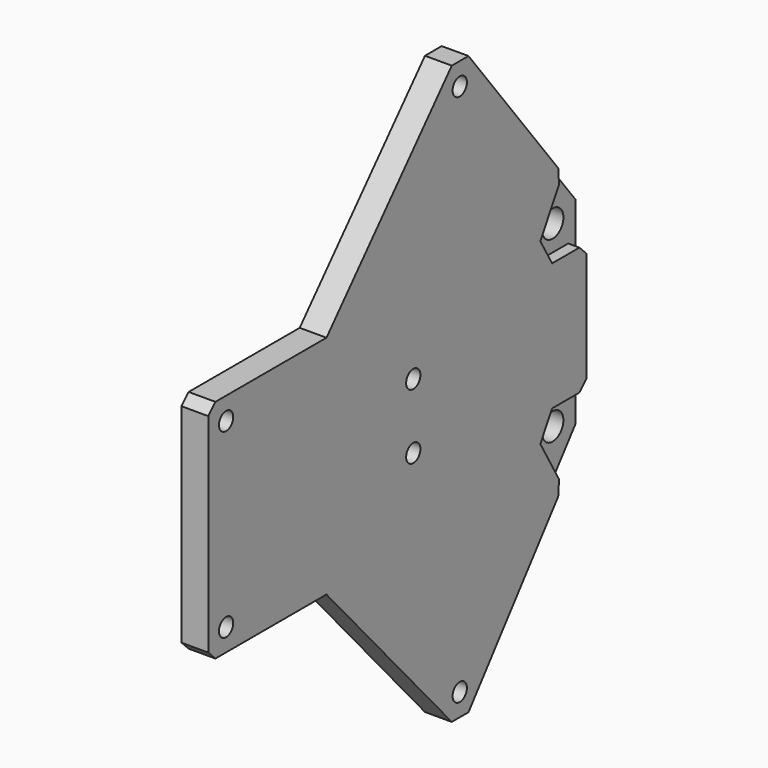
from build123d import *

# Parameters (mm, degrees)
SKETCH_R        = 1
SKETCH_R_2      = 1.5
PAD_DEPTH       = 3
POCKET_DEPTH    = 1.25
SKETCH002_R     = 2.5
SKETCH002_R_2   = 1.5
PAD001_DEPTH    = 0.25
CHAMFER_SIZE    = 1
CHAMFER001_SIZE = 1.2


with BuildPart() as part:
    # Sketch → Pad (new body)
    with BuildSketch(Plane.YZ):
        Polygon((48.175426, 11.088705), (48.175426, -11.088705), (31.651763, -32.353395), (29.306974, -32.353395), (11.768704, -12.656963), (-4.783279, -12.656963), (-4.783279, 12.656963), (11.768704, 12.656963), (29.306974, 32.353395), (31.651763, 32.353395), align=None)
        with Locations((-2.283279, 10.156963)):
            Circle(SKETCH_R, mode=Mode.SUBTRACT)
        with Locations((23.920751, 3.649365)):
            Circle(SKETCH_R, mode=Mode.SUBTRACT)
        with Locations((30.428348, 29.853395)):
            Circle(SKETCH_R, mode=Mode.SUBTRACT)
        with Locations((-2.283279, -10.156963)):
            Circle(SKETCH_R, mode=Mode.SUBTRACT)
        with Locations((30.428348, -29.853395)):
            Circle(SKETCH_R, mode=Mode.SUBTRACT)
        with Locations((23.920751, -3.649365)):
            Circle(SKETCH_R, mode=Mode.SUBTRACT)
        with Locations((45, 10)):
            Circle(SKETCH_R_2, mode=Mode.SUBTRACT)
        with Locations((45, -10)):
            Circle(SKETCH_R_2, mode=Mode.SUBTRACT)
    extrude(amount=-PAD_DEPTH)

    # Sketch001 (on Face19 of Pad) → Pocket (cut)
    with BuildSketch(Plane.YZ):
        Polygon((43.354552, 12.85), (41.709103, 10), (43.354552, 7.15), (46.645448, 7.15), (48.175426, 7.15), (48.175426, 11.088705), (44.826178, 15.398932), align=None)
        Polygon((43.354552, -7.15), (41.709103, -10), (43.354552, -12.85), (44.826178, -15.398932), (48.175426, -11.088705), (48.175426, -7.15), (46.645448, -7.15), align=None)
    extrude(amount=-POCKET_DEPTH, mode=Mode.SUBTRACT)

    # Sketch002 (on Face5 of Pocket) → Pad001 (join)
    with BuildSketch(Plane(origin=(-3, 0, 0), x_dir=(0, 1, 0), z_dir=(-1, 0, 0))):
        with Locations((45, 10)):
            Circle(SKETCH002_R)
        with Locations((45, 10)):
            Circle(SKETCH002_R_2, mode=Mode.SUBTRACT)
        with Locations((45, -10)):
            Circle(SKETCH002_R)
        with Locations((45, -10)):
            Circle(SKETCH002_R_2, mode=Mode.SUBTRACT)
    extrude(amount=PAD001_DEPTH)

    # Chamfer
    chamfer_edges = [part.edges().sort_by_distance(p)[0] for p in [
        (-0.625, 44.826178, 15.398932),
        (-0.625, 48.175426, 7.15),
        (-0.625, 48.175426, -7.15),
        (-0.625, 44.826178, -15.398932),
        (-1.5, -4.783279, 12.656963),
        (-1.5, -4.783279, -12.656963),
    ]]
    chamfer(chamfer_edges, length=CHAMFER_SIZE)

    # Chamfer001
    chamfer001_edges = [part.edges().sort_by_distance(p)[0] for p in [
        (-3, 29.428348, 29.853395),
        (-3, 22.920751, 3.649365),
        (-3, 29.428348, -29.853395),
        (-3, -3.283279, -10.156963),
        (-3, -3.283279, 10.156963),
        (-3, 22.920751, -3.649365),
    ]]
    chamfer(chamfer001_edges, length=CHAMFER001_SIZE)


solid = part.part
